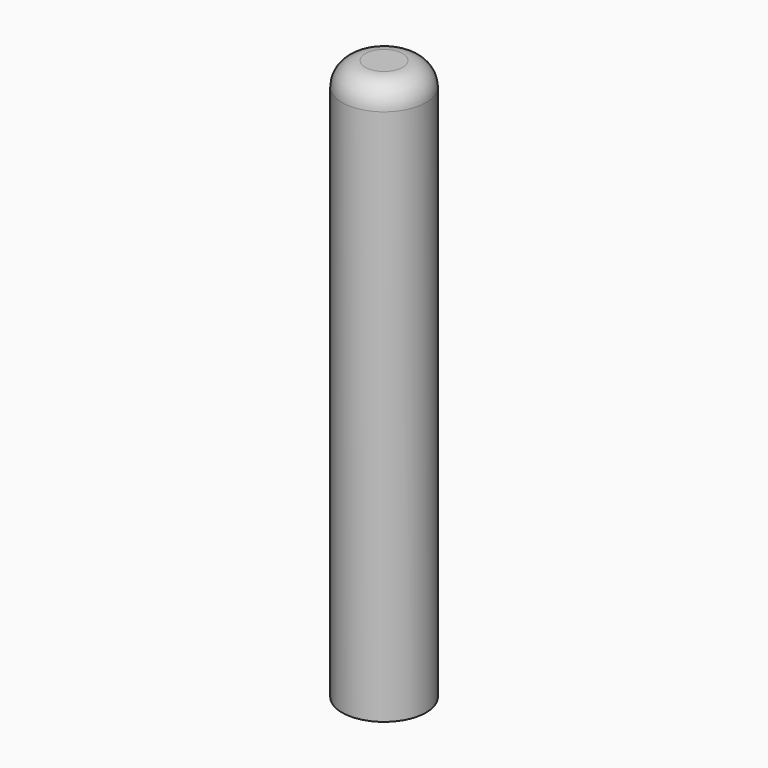
from build123d import *

# Parameters (mm, degrees)
F0_R     = 9
F1_DEPTH = 120
F2_R     = 6.5
F3_DEPTH = 60
F4_R     = 4
F5_DEPTH = 30
F6_R     = 5


with BuildPart() as f1:
    # F0 (on Top) → F1 (new body)
    with BuildSketch(Plane.XY):
        Circle(F0_R)
    extrude(amount=F1_DEPTH)

    # F2 (on face) → F3 (cut)
    with BuildSketch(Plane(origin=(0, 0, 0), x_dir=(1, 0, 0), z_dir=(0, 0, -1))):
        Circle(F2_R)
    extrude(amount=-F3_DEPTH, mode=Mode.SUBTRACT)

    # F4 (on face) → F5 (cut)
    with BuildSketch(Plane(origin=(0, 0, 60), x_dir=(1, 0, 0), z_dir=(0, 0, -1))):
        Circle(F4_R)
    extrude(amount=-F5_DEPTH, mode=Mode.SUBTRACT)

    # F6
    f6_edges = [f1.edges().sort_by_distance(p)[0] for p in [
        (-9, 0, 120),
    ]]
    fillet(f6_edges, radius=F6_R)


solid = f1.part
